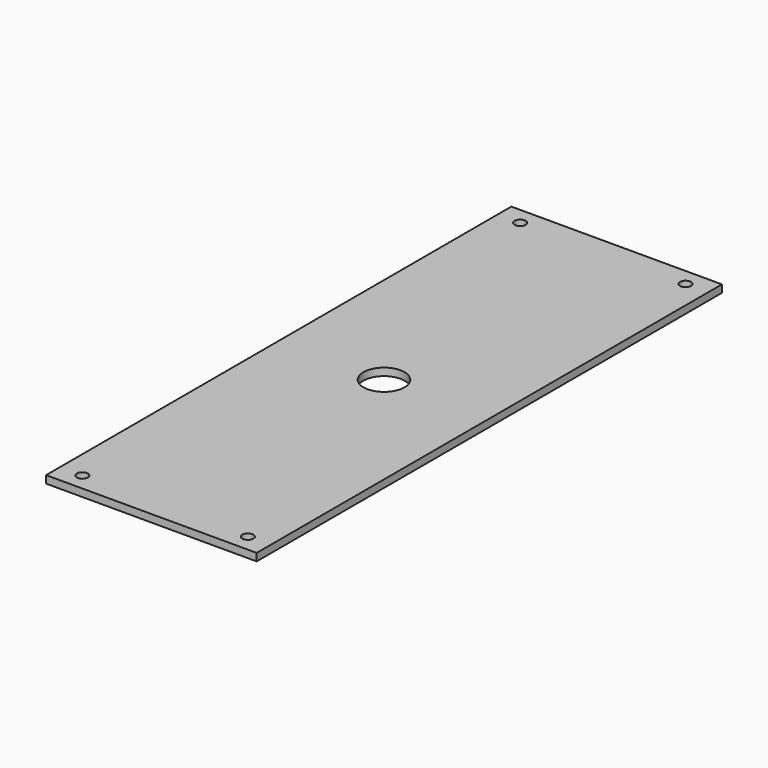
from build123d import *

# Parameters (mm, degrees)
F0_W     = 84
F0_H     = 232
F0_R     = 2.2
F0_R_2   = 8.2
F1_DEPTH = 3


with BuildPart() as f1:
    # F0 (on Top) → F1 (new body)
    with BuildSketch(Plane.XY):
        with Locations((52.699053, 77.558055)):
            Rectangle(F0_W, F0_H)
        with Locations((19.699053, -31.591945)):
            Circle(F0_R, mode=Mode.SUBTRACT)
        with Locations((85.699053, -31.591945)):
            Circle(F0_R, mode=Mode.SUBTRACT)
        with Locations((52.699053, 77.558055)):
            Circle(F0_R_2, mode=Mode.SUBTRACT)
        with Locations((19.699053, 186.708055)):
            Circle(F0_R, mode=Mode.SUBTRACT)
        with Locations((85.699053, 186.708055)):
            Circle(F0_R, mode=Mode.SUBTRACT)
    extrude(amount=F1_DEPTH)


solid = f1.part
